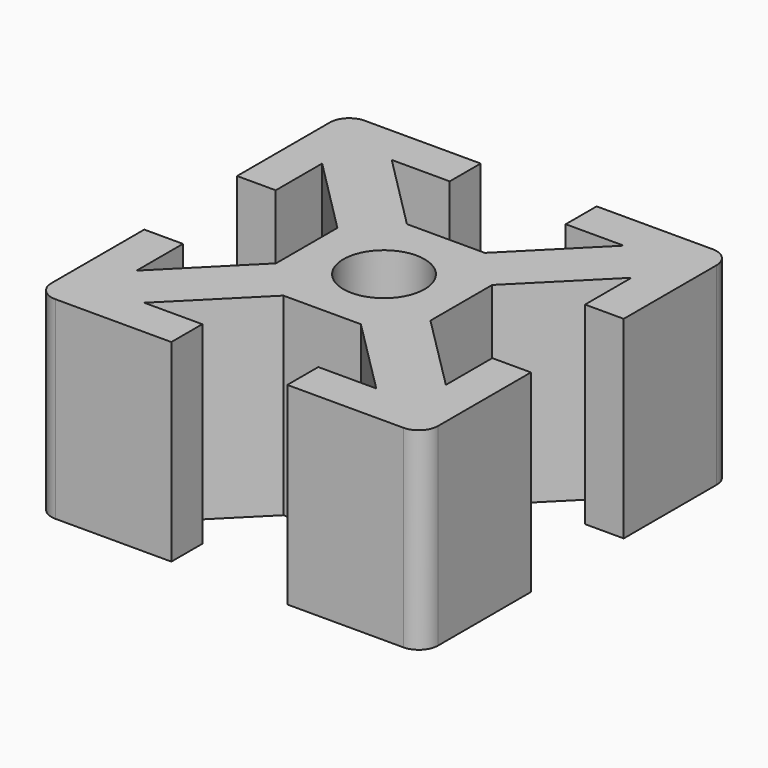
from build123d import *

# Parameters (mm, degrees)
SKETCH_R  = 2.1
PAD_DEPTH = 10
FILLET_R  = 1


with BuildPart() as part:
    # Sketch → Pad (new body)
    with BuildSketch(Plane.XY):
        Polygon((-8, 6), (-8, 3), (-10, 3), (-10, 10), (-3, 10), (-3, 8), (-6, 8), (-2.014603, 4), (2.014603, 4), (6, 8), (3, 8), (3, 10), (10, 10), (10, 3), (8, 3), (8, 6), (4, 1.996405), (4, -1.996405), (8, -6), (8, -3), (10, -3), (10, -10), (3, -10), (3, -8), (6, -8), (2.003592, -4), (-2.003592, -4), (-6, -8), (-3, -8), (-3, -10), (-10, -10), (-10, -3), (-8, -3), (-8, -6), (-4, -1.985344), (-4, 1.985344), align=None)
        Circle(SKETCH_R, mode=Mode.SUBTRACT)
    extrude(amount=PAD_DEPTH)

    # Fillet
    fillet_edges = [part.edges().sort_by_distance(p)[0] for p in [
        (-10, 10, 5),
        (10, 10, 5),
        (-10, -10, 5),
        (10, -10, 5),
    ]]
    fillet(fillet_edges, radius=FILLET_R)


solid = part.part
